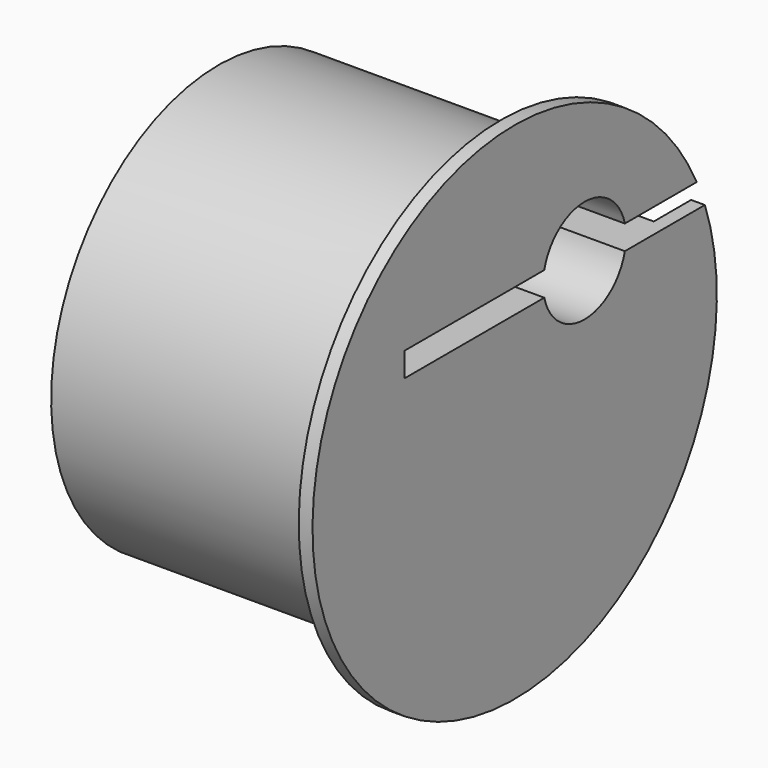
from build123d import *

# Parameters (mm, degrees)
F3_DEPTH = 14.001
F4_DEPTH = 14.001
F6_DEPTH = 2
F7_DEPTH = 2


with BuildPart() as f1:
    # F0 (on Front) → F1 (revolve)
    with BuildSketch(Plane.XZ):
        Polygon((-14, 0), (0, 0), (0, 11.95), (-0.65, 11.95), (-0.65, 9.9), (-14, 9.9), align=None)
    revolve(axis=Axis((-7, 0, 0), (1, 0, 0)))

    # F2 (on face) → F3 (cut, through all)
    with BuildSketch(Plane(origin=(-14, 0, 0), x_dir=(0, -1, 0), z_dir=(-1, 0, 0))):
        with BuildLine():
            Line((6.518706, 5.2), (-1.75, 5.2))
            ThreePointArc((-1.75, 5.2), (-4.13157, 7.075), (-6.51314, 5.2))
            Line((-6.51314, 5.2), (-11.242775, 5.2))
            Line((-11.242775, 5.2), (-11.242775, 4.05))
            Line((-11.242775, 4.05), (-6.51314, 4.05))
            ThreePointArc((-6.51314, 4.05), (-4.13157, 2.175), (-1.75, 4.05))
            Line((-1.75, 4.05), (6.518706, 4.05))
            Line((6.518706, 4.05), (6.518706, 5.2))
        make_face()
    extrude(amount=-F3_DEPTH, mode=Mode.SUBTRACT)

    # F2 (on face) → F4 (cut, through all)
    with BuildSketch(Plane(origin=(-14, 0, 0), x_dir=(0, -1, 0), z_dir=(-1, 0, 0))):
        with BuildLine():
            Line((6.518706, 5.2), (-1.75, 5.2))
            ThreePointArc((-1.75, 5.2), (-4.13157, 7.075), (-6.51314, 5.2))
            Line((-6.51314, 5.2), (-11.242775, 5.2))
            Line((-11.242775, 5.2), (-11.242775, 4.05))
            Line((-11.242775, 4.05), (-6.51314, 4.05))
            ThreePointArc((-6.51314, 4.05), (-4.13157, 2.175), (-1.75, 4.05))
            Line((-1.75, 4.05), (6.518706, 4.05))
            Line((6.518706, 4.05), (6.518706, 5.2))
        make_face()
    extrude(amount=-F4_DEPTH, mode=Mode.SUBTRACT)

    # F5 (on face) → F6 (cut)
    with BuildSketch(Plane(origin=(-14, 0, 0), x_dir=(0, -1, 0), z_dir=(-1, 0, 0))):
        with BuildLine():
            ThreePointArc((5.55, -5.8), (8.65, -2.7), (5.55, 0.4))
            Line((5.55, 0.4), (-5.55, 0.4))
            ThreePointArc((-5.55, 0.4), (-8.65, -2.7), (-5.55, -5.8))
            Line((-5.55, -5.8), (5.55, -5.8))
        make_face()
    extrude(amount=-F6_DEPTH, mode=Mode.SUBTRACT)


with BuildPart() as f7:
    # F5 (on face) → F7 (new body, through all)
    with BuildSketch(Plane(origin=(-14, 0, 0), x_dir=(0, -1, 0), z_dir=(-1, 0, 0))):
        with BuildLine():
            ThreePointArc((5.55, -5.8), (8.65, -2.7), (5.55, 0.4))
            Line((5.55, 0.4), (-5.55, 0.4))
            ThreePointArc((-5.55, 0.4), (-8.65, -2.7), (-5.55, -5.8))
            Line((-5.55, -5.8), (5.55, -5.8))
        make_face()
    extrude(amount=-F7_DEPTH)


solid = Compound([f1.part, f7.part])
